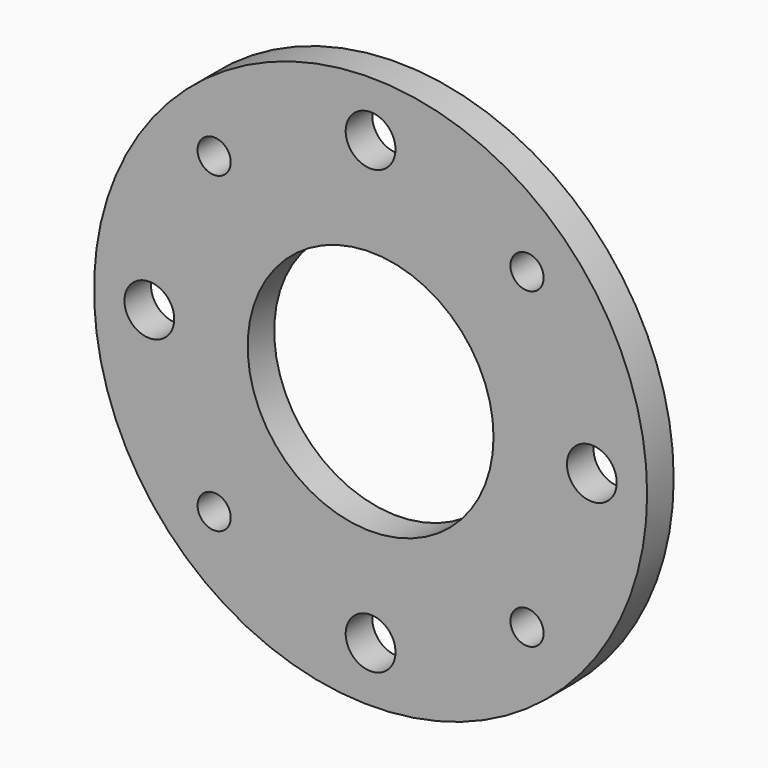
from build123d import *

# Parameters (mm, degrees)
F0_R     = 100
F0_R_2   = 6
F0_R_3   = 9
F0_R_4   = 44.45
F1_DEPTH = 12


with BuildPart() as f1:
    # F0 (on Front) → F1 (new body)
    with BuildSketch(Plane.XZ):
        Circle(F0_R)
        with Locations((-56.568542, -56.568542)):
            Circle(F0_R_2, mode=Mode.SUBTRACT)
        with Locations((0, -80)):
            Circle(F0_R_3, mode=Mode.SUBTRACT)
        with Locations((56.568542, -56.568542)):
            Circle(F0_R_2, mode=Mode.SUBTRACT)
        with Locations((-80, 0)):
            Circle(F0_R_3, mode=Mode.SUBTRACT)
        with Locations((-56.568542, 56.568542)):
            Circle(F0_R_2, mode=Mode.SUBTRACT)
        Circle(F0_R_4, mode=Mode.SUBTRACT)
        with Locations((80, 0)):
            Circle(F0_R_3, mode=Mode.SUBTRACT)
        with Locations((0, 80)):
            Circle(F0_R_3, mode=Mode.SUBTRACT)
        with Locations((56.568542, 56.568542)):
            Circle(F0_R_2, mode=Mode.SUBTRACT)
    extrude(amount=F1_DEPTH)


solid = f1.part
